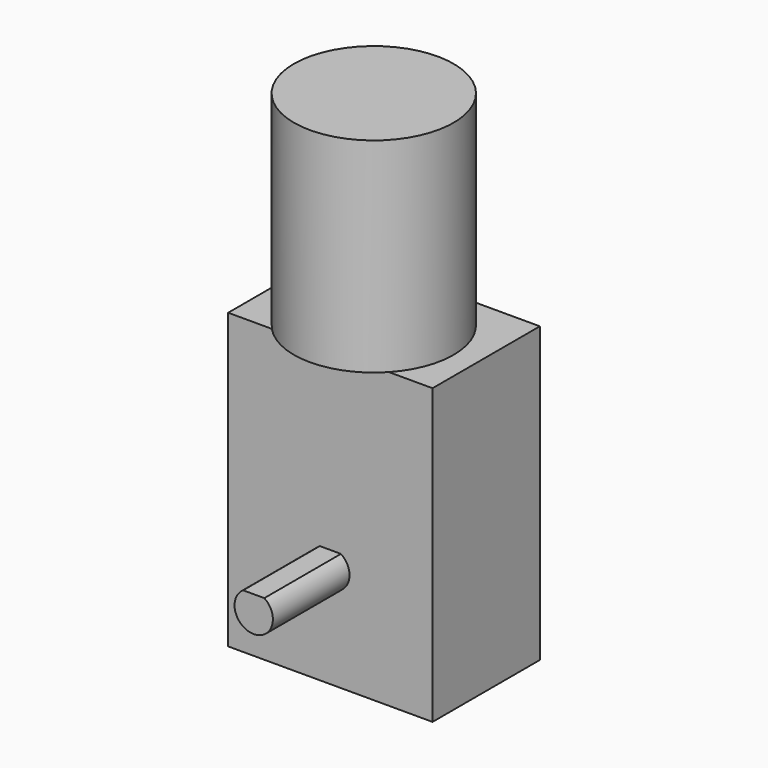
from build123d import *

# Parameters (mm, degrees)
SKETCH190_W             = 46
SKETCH190_H             = 32
PAD124_DEPTH            = 21
SKETCH191_R             = 12.5
PAD125_DEPTH            = 32
PAD126_DEPTH            = 15
PAD127_DEPTH            = 15
BODY099_PITCH_ANGLE     = -90
BODY099_PLACEMENT_ANGLE = 90


with BuildPart() as part:
    # Sketch190 → Pad124 (new body)
    with BuildSketch(Plane.XY):
        with Locations((7, 0)):
            Rectangle(SKETCH190_W, SKETCH190_H)
    extrude(amount=PAD124_DEPTH)

    # Sketch191 (on Face2 of Pad124) → Pad125 (join)
    with BuildSketch(Plane.YZ.offset(30)):
        with Locations((0, 12.5)):
            Circle(SKETCH191_R)
    extrude(amount=PAD125_DEPTH)

    # Sketch192 (on Face4 of Pad125) → Pad126 (join)
    with BuildSketch(Plane(origin=(0, 0, 0), x_dir=(1, 0, 0), z_dir=(0, 0, -1))):
        with BuildLine():
            ThreePointArc((2.5, 1.658312), (-3, 0), (2.5, -1.658312))
            Line((2.5, 1.658312), (2.5, -1.658312))
        make_face()
    extrude(amount=PAD126_DEPTH)

    # Sketch193 (on Face5 of Pad126) → Pad127 (join)
    with BuildSketch(Plane.XY.offset(21)):
        with BuildLine():
            ThreePointArc((2.5, 1.658312), (-3, 0), (2.5, -1.658312))
            Line((2.5, 1.658312), (2.5, -1.658312))
        make_face()
    extrude(amount=PAD127_DEPTH)


with BuildPart() as part_1:
    # Body099 pitch: moved
    add(part.part.rotate(Axis((0, 0, 0), (0, 1, 0)), BODY099_PITCH_ANGLE))


with BuildPart() as part_2:
    # Body099 placement: moved
    add(part_1.part.moved(Location((0, -24, 0))).rotate(Axis((0, -24, 0), (0, 0, 1)), BODY099_PLACEMENT_ANGLE))


solid = part_2.part
